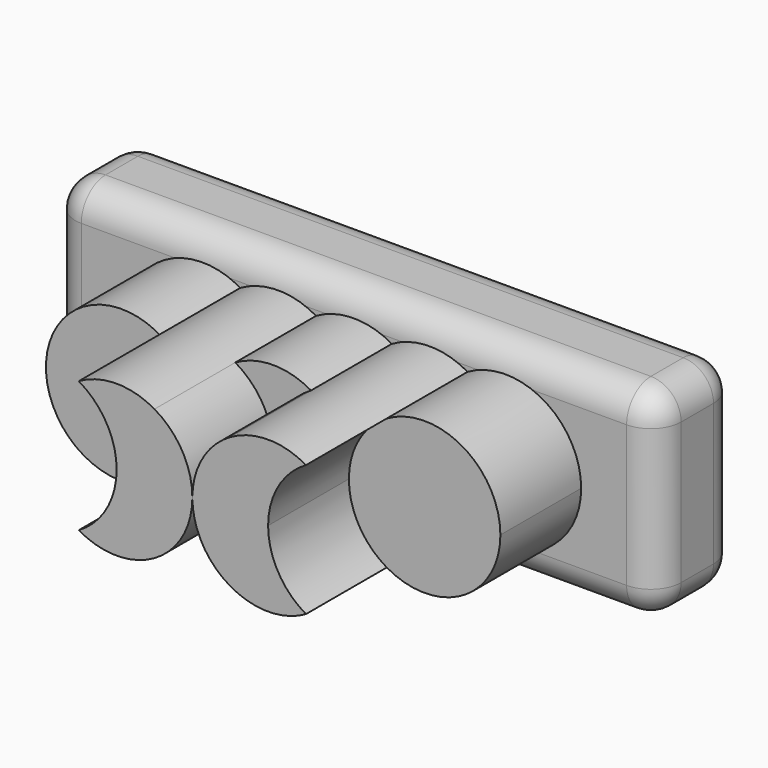
from build123d import *

# Parameters (mm, degrees)
F0_W     = 60
F0_H     = 20
F1_DEPTH = 10
F3_DEPTH = 10
F4_DEPTH = 20
F5_DEPTH = 20
F6_DEPTH = 10
F7_R     = 3


with BuildPart() as f1:
    # F0 (on Front) → F1 (new body)
    with BuildSketch(Plane.XZ):
        Rectangle(F0_W, F0_H)
    extrude(amount=F1_DEPTH)

    # F7
    f7_edges = [f1.edges().sort_by_distance(p)[0] for p in [
        (-30, -10, 0),
        (0, -10, 10),
        (0, -10, -10),
        (30, -10, 0),
        (-30, -5, -10),
        (30, -5, -10),
        (0, 0, -10),
        (-30, -5, 10),
        (-30, 0, 0),
        (0, 0, 10),
        (30, 0, 0),
        (30, -5, 10),
    ]]
    fillet(f7_edges, radius=F7_R)


with BuildPart() as f3:
    # F2 (on face) → F3 (new body)
    with BuildSketch(Plane.XZ.offset(10)):
        with BuildLine():
            ThreePointArc((-11.25, -6.4951905284), (-15, 0), (-11.25, 6.4951905284))
            ThreePointArc((-11.25, 6.4951905284), (-22.5, 0), (-11.25, -6.4951905284))
        make_face()
        with BuildLine():
            ThreePointArc((-11.25, -6.4951905284), (-8.5048094716, -3.75), (-7.5, 0))
            ThreePointArc((-7.5, 0), (-8.5048094716, 3.75), (-11.25, 6.4951905284))
            ThreePointArc((-11.25, 6.4951905284), (-15, 0), (-11.25, -6.4951905284))
        make_face()
    extrude(amount=F3_DEPTH)


with BuildPart() as f4:
    # F2 (on face) → F4 (new body)
    with BuildSketch(Plane.XZ.offset(10)):
        with BuildLine():
            ThreePointArc((0, 0), (-1.0048094716, 3.75), (-3.75, 6.4951905284))
            ThreePointArc((-3.75, 6.4951905284), (-6.4951905284, 3.75), (-7.5, 0))
            ThreePointArc((-7.5, 0), (-6.4951905284, -3.75), (-3.75, -6.4951905284))
            ThreePointArc((-3.75, -6.4951905284), (-1.0048094716, -3.75), (0, 0))
        make_face()
        with BuildLine():
            ThreePointArc((-11.25, -6.4951905284), (-7.5, -7.5), (-3.75, -6.4951905284))
            ThreePointArc((-3.75, -6.4951905284), (-6.4951905284, -3.75), (-7.5, 0))
            ThreePointArc((-7.5, 0), (-8.5048094716, -3.75), (-11.25, -6.4951905284))
        make_face()
        with BuildLine():
            ThreePointArc((-7.5, 0), (-6.4951905284, 3.75), (-3.75, 6.4951905284))
            ThreePointArc((-3.75, 6.4951905284), (-7.5, 7.5), (-11.25, 6.4951905284))
            ThreePointArc((-11.25, 6.4951905284), (-8.5048094716, 3.75), (-7.5, 0))
        make_face()
    extrude(amount=F4_DEPTH)


with BuildPart() as f5:
    # F2 (on face) → F5 (new body)
    with BuildSketch(Plane.XZ.offset(10)):
        with BuildLine():
            ThreePointArc((3.75, -6.4951905284), (6.4951905284, -3.75), (7.5, 0))
            ThreePointArc((7.5, 0), (6.4951905284, 3.75), (3.75, 6.4951905284))
            ThreePointArc((3.75, 6.4951905284), (1.0048094716, 3.75), (0, 0))
            ThreePointArc((0, 0), (1.0048094716, -3.75), (3.75, -6.4951905284))
        make_face()
        with BuildLine():
            ThreePointArc((11.25, -6.4951905284), (8.5048094716, -3.75), (7.5, 0))
            ThreePointArc((7.5, 0), (6.4951905284, -3.75), (3.75, -6.4951905284))
            ThreePointArc((3.75, -6.4951905284), (7.5, -7.5), (11.25, -6.4951905284))
        make_face()
        with BuildLine():
            ThreePointArc((3.75, 6.4951905284), (6.4951905284, 3.75), (7.5, 0))
            ThreePointArc((7.5, 0), (8.5048094716, 3.75), (11.25, 6.4951905284))
            ThreePointArc((11.25, 6.4951905284), (7.5, 7.5), (3.75, 6.4951905284))
        make_face()
    extrude(amount=F5_DEPTH)


with BuildPart() as f6:
    # F2 (on face) → F6 (new body)
    with BuildSketch(Plane.XZ.offset(10)):
        with BuildLine():
            ThreePointArc((-3.75, -6.4951905284), (0, -7.5), (3.75, -6.4951905284))
            ThreePointArc((3.75, -6.4951905284), (1.0048094716, -3.75), (0, 0))
            ThreePointArc((0, 0), (-1.0048094716, -3.75), (-3.75, -6.4951905284))
        make_face()
    extrude(amount=F6_DEPTH)


with BuildPart() as f6b:
    # F2 (on face) → F6, piece 2 (new body)
    with BuildSketch(Plane.XZ.offset(10)):
        with BuildLine():
            ThreePointArc((0, 0), (1.0048094716, 3.75), (3.75, 6.4951905284))
            ThreePointArc((3.75, 6.4951905284), (0, 7.5), (-3.75, 6.4951905284))
            ThreePointArc((-3.75, 6.4951905284), (-1.0048094716, 3.75), (0, 0))
        make_face()
    extrude(amount=F6_DEPTH)


with BuildPart() as f6c:
    # F2 (on face) → F6, piece 3 (new body)
    with BuildSketch(Plane.XZ.offset(10)):
        with BuildLine():
            ThreePointArc((11.25, 6.4951905284), (8.5048094716, 3.75), (7.5, 0))
            ThreePointArc((7.5, 0), (8.5048094716, -3.75), (11.25, -6.4951905284))
            ThreePointArc((11.25, -6.4951905284), (13.9951905284, -3.75), (15, 0))
            ThreePointArc((15, 0), (13.9951905284, 3.75), (11.25, 6.4951905284))
        make_face()
        with BuildLine():
            ThreePointArc((22.5, 0), (18.75, 6.4951905284), (11.25, 6.4951905284))
            ThreePointArc((11.25, 6.4951905284), (13.9951905284, 3.75), (15, 0))
            ThreePointArc((15, 0), (13.9951905284, -3.75), (11.25, -6.4951905284))
            ThreePointArc((11.25, -6.4951905284), (18.75, -6.4951905284), (22.5, 0))
        make_face()
    extrude(amount=F6_DEPTH)


solid = Compound([f1.part, f3.part, f4.part, f5.part, f6.part, f6b.part, f6c.part])
